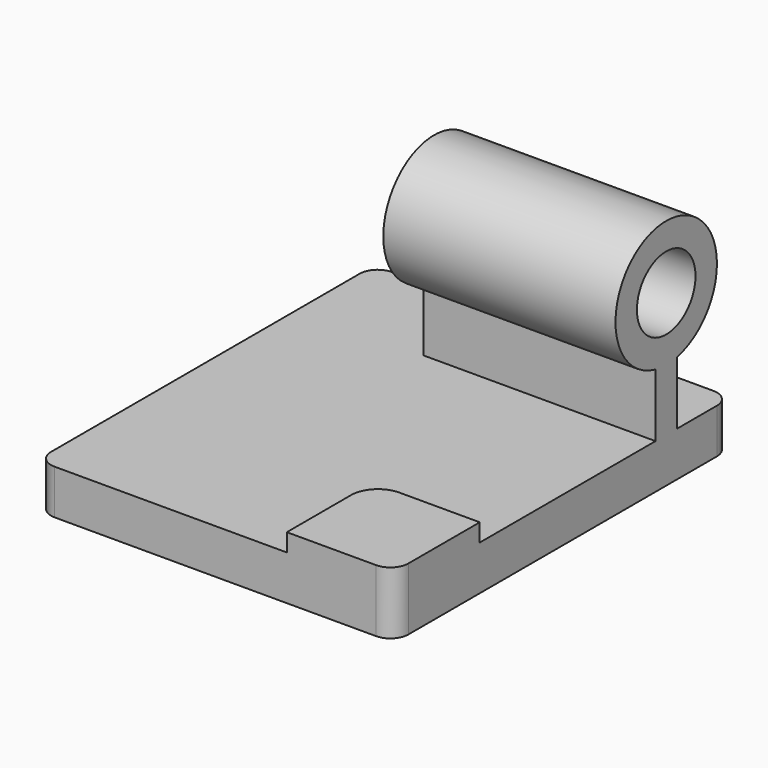
from build123d import *

# Parameters (mm, degrees)
F1_DEPTH = 200
F0_W     = 60
F0_H     = 10
F2_DEPTH = 60
F0_R     = 20.5
F3_DEPTH = 130
F4_R     = 10
F5_R     = 15


with BuildPart() as f1:
    # F0 (on Right) → F1 (new body)
    with BuildSketch(Plane.YZ):
        Polygon((60, -10), (0, -10), (0, -35), (236, -35), (236, -10), (198, -10), (183, -10), align=None)
    extrude(amount=-F1_DEPTH)

    # F0 (on Right) → F2 (join)
    with BuildSketch(Plane.YZ):
        with Locations((30, -5)):
            Rectangle(F0_W, F0_H)
    extrude(amount=-F2_DEPTH)

    # F0 (on Right) → F3 (join)
    with BuildSketch(Plane.YZ):
        with BuildLine():
            ThreePointArc((226, 60), (168.206503, 87.62698), (183, 25.301297))
            ThreePointArc((183, 25.301297), (190.5, 24.5), (198, 25.301297))
            ThreePointArc((198, 25.301297), (218.12698, 37.706503), (226, 60))
        make_face()
        with Locations((190.5, 60)):
            Circle(F0_R, mode=Mode.SUBTRACT)
        with BuildLine():
            Line((183, 25.301297), (183, -10))
            Line((183, -10), (198, -10))
            Line((198, -10), (198, 25.301297))
            ThreePointArc((198, 25.301297), (190.5, 24.5), (183, 25.301297))
        make_face()
    extrude(amount=-F3_DEPTH)

    # F4
    f4_edges = [f1.edges().sort_by_distance(p)[0] for p in [
        (0, 0, -17.5),
        (-200, 0, -22.5),
        (0, 236, -22.5),
        (-200, 236, -22.5),
    ]]
    fillet(f4_edges, radius=F4_R)

    # F5
    f5_edges = [f1.edges().sort_by_distance(p)[0] for p in [
        (-60, 60, -5),
    ]]
    fillet(f5_edges, radius=F5_R)


solid = f1.part
